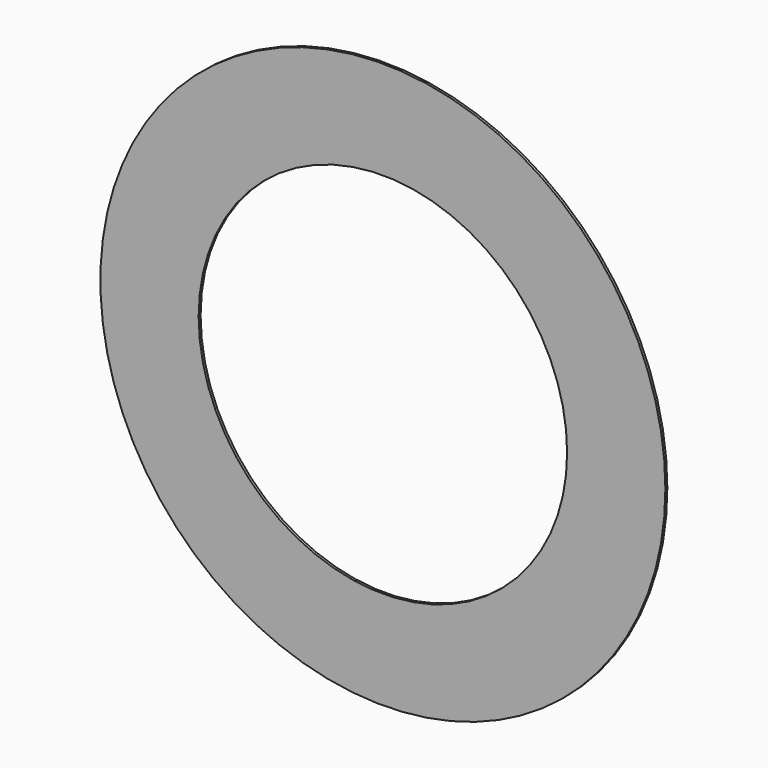
from build123d import *

# Parameters (mm, degrees)
F0_R     = 57.5
F0_R_2   = 37.5
F1_DEPTH = 0.5


with BuildPart() as f1:
    # F0 (on Front) → F1 (new body)
    with BuildSketch(Plane.XZ):
        with Locations((-37.38172, 20.111803)):
            Circle(F0_R)
        with Locations((-37.38172, 20.111803)):
            Circle(F0_R_2, mode=Mode.SUBTRACT)
        with Locations((-37.38172, 20.111803)):
            Circle(F0_R)
        with Locations((-37.38172, 20.111803)):
            Circle(F0_R_2, mode=Mode.SUBTRACT)
    extrude(amount=F1_DEPTH)


solid = f1.part
